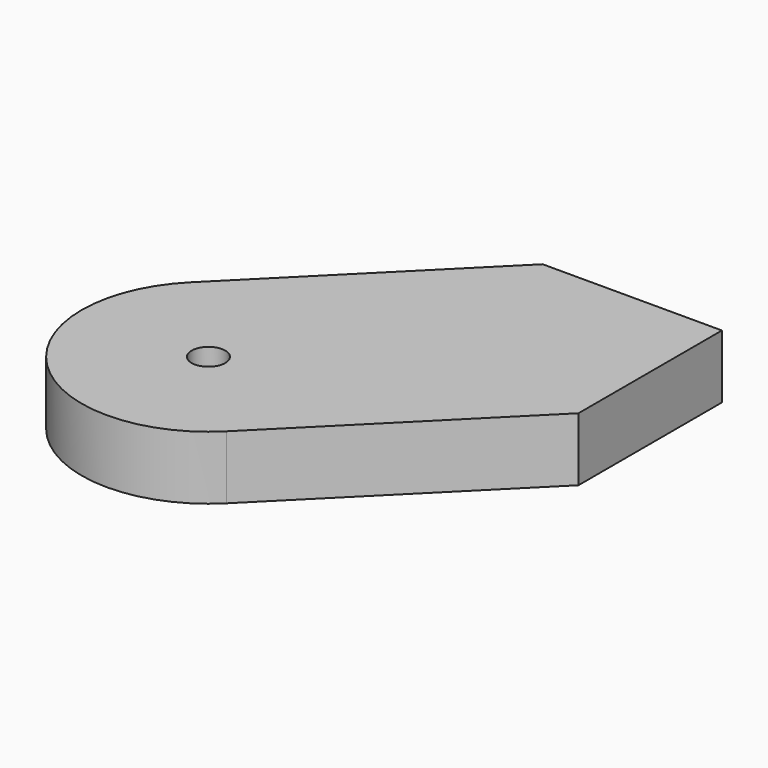
from build123d import *

# Parameters (mm, degrees)
F1_DEPTH = 25.4
F3_D     = 13.49248


with BuildPart() as f1:
    # F0 (on Top) → F1 (new body)
    with BuildSketch(Plane.XY):
        with BuildLine():
            Line((42.4579510314, 114.3), (-35.9210244843, 35.9210244843))
            ThreePointArc((-35.9210244843, 35.9210244843), (-35.9210244843, -35.9210244843), (35.9210244843, -35.9210244843))
            Line((35.9210244843, -35.9210244843), (114.3, 42.4579510314))
            Line((114.3, 42.4579510314), (114.3, 114.3))
            Line((114.3, 114.3), (42.4579510314, 114.3))
        make_face()
    extrude(amount=F1_DEPTH)

    # F3 (through all)
    with Locations(Plane.XY.offset(25.4)):
        with Locations((0, 0)):
            Hole(F3_D / 2)


solid = f1.part
